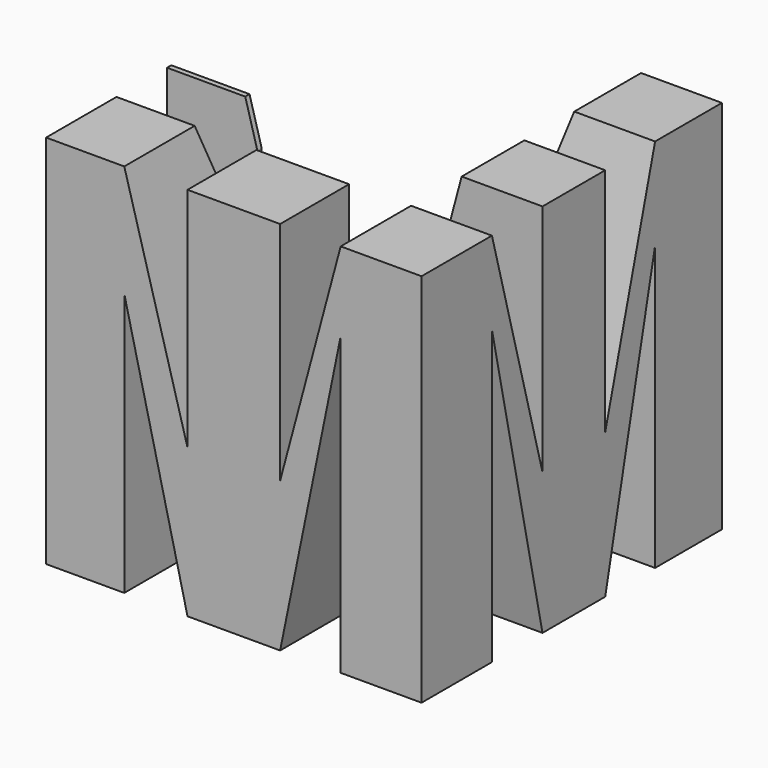
from build123d import *

# Parameters (mm, degrees)
F3_DEPTH = 50
F4_DEPTH = 50
F5_DEPTH = 50


with BuildPart() as f3:
    # F0 (on Top) → F3 (new body, symmetric)
    with BuildSketch(Plane.XY):
        Polygon((50, -27.040666), (50, 50), (25.545932, 50), (25.545932, -27.040666), (-25.926208, -27.040666), (-25.926208, -8.301959), (-50, -8.301959), (-50, -27.040666), (-50, -50), (-25.926208, -50), (25.545932, -50), (50, -50), align=None)
    extrude(amount=F3_DEPTH, both=True)

    # F1 (on Front) → F4 (intersect, symmetric)
    with BuildSketch(Plane.XZ):
        Polygon((-29.175453, 50), (-50, 50), (-50, -50), (-29.175453, -50), (-29.175453, 20.161899), (-12.334338, -50), (12.334337, -50), (28.463857, 28.938254), (28.463857, -50), (50, -50), (50, 50), (28.463857, 50), (12.334337, -10.199549), (12.334337, 50), (-12.334338, 50), (-12.334338, -10.436747), align=None)
    extrude(amount=F4_DEPTH, both=True, mode=Mode.INTERSECT)

    # F2 (on Right) → F5 (intersect, symmetric)
    with BuildSketch(Plane.YZ):
        Polygon((-26.566265, 50), (-50, 50), (-50, -50), (-26.566265, -50), (-26.566265, 27.98946), (-9.725152, -50), (11.148345, -50), (27.752262, 25.617471), (27.752262, -50), (50, -50), (50, 50), (27.752262, 50), (11.148345, -11.385542), (11.148345, 50), (-9.725152, 50), (-9.725152, -12.334338), align=None)
    extrude(amount=F5_DEPTH, both=True, mode=Mode.INTERSECT)


solid = f3.part
